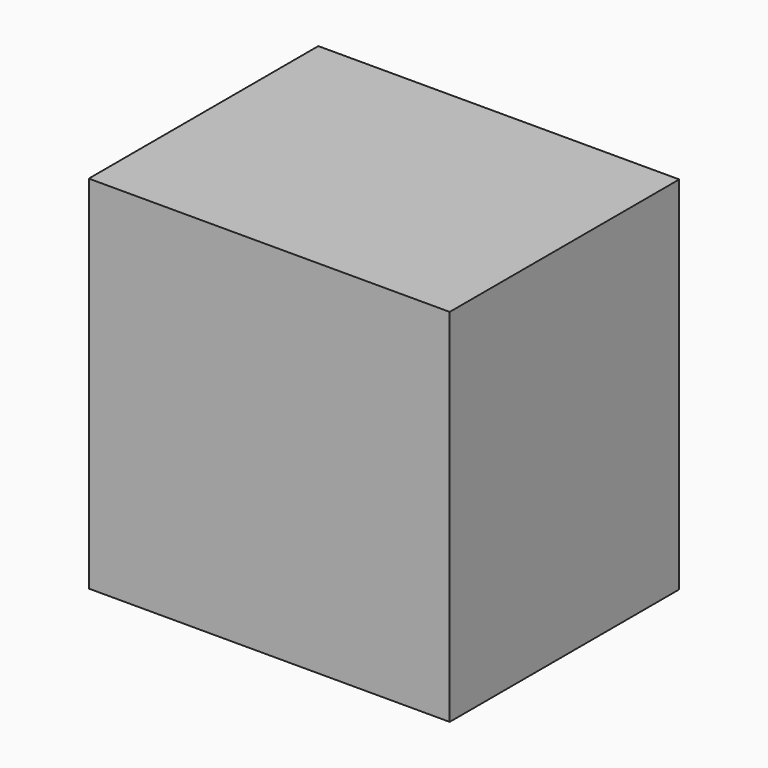
from build123d import *

# Parameters (mm, degrees)
CYLINDER013_R     = 11
CYLINDER013_DEPTH = 2
CYLINDER014_R     = 2.5
CYLINDER014_DEPTH = 14
CYLINDER010_R     = 1.5
CYLINDER010_DEPTH = 10
CYLINDER011_R     = 1.5
CYLINDER011_DEPTH = 10
CYLINDER012_R     = 1.5
CYLINDER012_DEPTH = 10
CYLINDER009_R     = 1.5
CYLINDER009_DEPTH = 10
BOX001_W          = 39
BOX001_H          = 31
BOX001_DEPTH      = 39


with BuildPart() as cylinder013:
    # Cylinder013 → Cylinder013 (new body)
    with BuildSketch(Plane(origin=(19.5, 33, 19.5), x_dir=(1, 0, 0), z_dir=(0, -1, 0))):
        Circle(CYLINDER013_R)
    extrude(amount=CYLINDER013_DEPTH)


with BuildPart() as cylinder014:
    # Cylinder014 → Cylinder014 (new body)
    with BuildSketch(Plane(origin=(19.5, 33, 19.5), x_dir=(1, 0, 0), z_dir=(0, 1, 0))):
        Circle(CYLINDER014_R)
    extrude(amount=CYLINDER014_DEPTH)


with BuildPart() as cylinder010:
    # Cylinder010 → Cylinder010 (new body)
    with BuildSketch(Plane(origin=(35, 23, 35), x_dir=(1, 0, 0), z_dir=(0, 1, 0))):
        Circle(CYLINDER010_R)
    extrude(amount=CYLINDER010_DEPTH)


with BuildPart() as cylinder011:
    # Cylinder011 → Cylinder011 (new body)
    with BuildSketch(Plane(origin=(35, 23, 4), x_dir=(1, 0, 0), z_dir=(0, 1, 0))):
        Circle(CYLINDER011_R)
    extrude(amount=CYLINDER011_DEPTH)


with BuildPart() as cylinder012:
    # Cylinder012 → Cylinder012 (new body)
    with BuildSketch(Plane(origin=(4, 23, 4), x_dir=(1, 0, 0), z_dir=(0, 1, 0))):
        Circle(CYLINDER012_R)
    extrude(amount=CYLINDER012_DEPTH)


with BuildPart() as cylinder009:
    # Cylinder009 → Cylinder009 (new body)
    with BuildSketch(Plane(origin=(4, 23, 35), x_dir=(1, 0, 0), z_dir=(0, 1, 0))):
        Circle(CYLINDER009_R)
    extrude(amount=CYLINDER009_DEPTH)


with BuildPart() as fusion001:
    # Box001 → Box001 (new body)
    with BuildSketch(Plane.XY):
        with Locations((19.5, 15.5)):
            Rectangle(BOX001_W, BOX001_H)
    extrude(amount=BOX001_DEPTH)

    # Cut005: cut Cylinder009
    add(cylinder009.part, mode=Mode.SUBTRACT)

    # Cut006: cut Cylinder012
    add(cylinder012.part, mode=Mode.SUBTRACT)

    # Cut007: cut Cylinder011
    add(cylinder011.part, mode=Mode.SUBTRACT)

    # Cut008: cut Cylinder010
    add(cylinder010.part, mode=Mode.SUBTRACT)

    # Fusion001: union Cylinder013, Cylinder014
    add(cylinder013.part)
    add(cylinder014.part)


with BuildPart() as fusion001_1:
    # Fusion001 placement: moved
    add(fusion001.part.moved(Location((100.2, -42, 57.4))))


solid = fusion001_1.part
